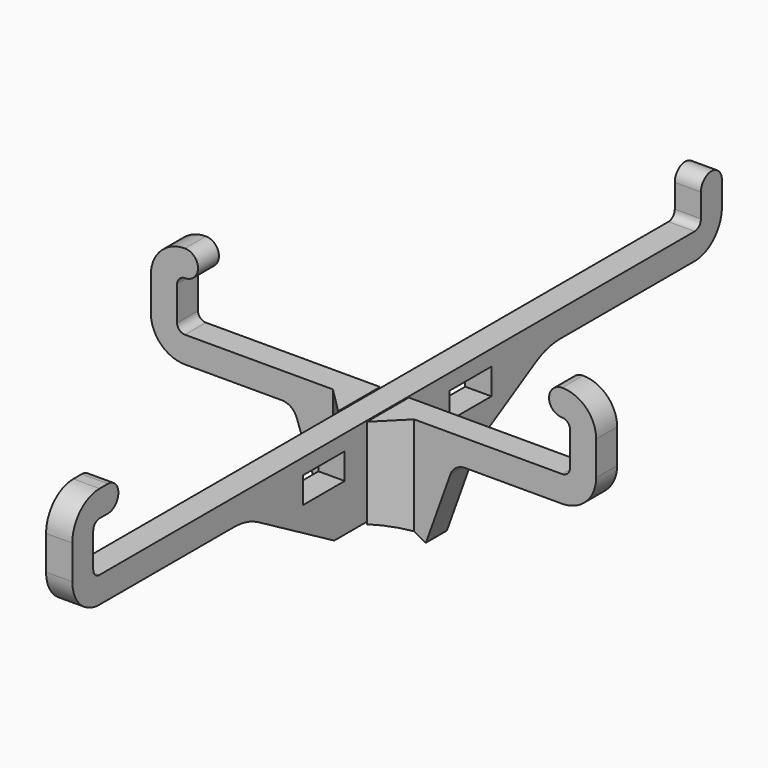
from build123d import *

# Parameters (mm, degrees)
SKETCH_W     = 10
SKETCH_H     = 5
PAD_DEPTH    = 2.5
PAD001_DEPTH = 2.5
PAD002_DEPTH = 20
POCKET_DEPTH = 10


with BuildPart() as vertical:
    # Sketch → Pad (new body, symmetric)
    with BuildSketch(Plane.YZ):
        with BuildLine():
            Line((77.5, 18.500001), (77.5, 22.999999))
            ThreePointArc((77.5, 22.999999), (75, 25.499995), (72.5, 23))
            Line((72.5, 18.499991), (72.5, 23))
            ThreePointArc((71, 17), (72.060657, 17.439336), (72.5, 18.499991))
            Line((-71, 17), (71, 17))
            ThreePointArc((-72.5, 18.499991), (-72.060657, 17.439337), (-71, 17))
            Line((-72.5, 25.000009), (-72.5, 18.499991))
            ThreePointArc((-71.000002, 26.5), (-72.060657, 26.060663), (-72.5, 25.000009))
            Line((-71.000002, 26.5), (-69.000002, 26.5))
            ThreePointArc((-69.000002, 26.5), (-66.500001, 29), (-69.000002, 31.5))
            Line((-69.000002, 31.5), (-70.999998, 31.5))
            ThreePointArc((-70.999998, 31.5), (-75.596194, 29.596195), (-77.5, 25))
            Line((-77.5, 18.499991), (-77.5, 25))
            ThreePointArc((-77.5, 18.499991), (-75.596191, 13.903803), (-71, 12))
            Line((-71, 12), (-38.922975, 12))
            ThreePointArc((-33, 10.392302), (-35.85433, 11.590933), (-38.922975, 12))
            Line((-15, 0), (-33, 10.392302))
            Line((-15, 0), (-2.75, 0))
            Line((-2.75, 0), (-2.75, 8.7))
            Line((-2.75, 8.7), (2.75, 8.7))
            Line((2.75, 8.7), (2.75, 0))
            Line((2.75, 0), (15, 0))
            Line((15, 0), (33, 10.392302))
            ThreePointArc((38.922975, 12), (35.85433, 11.590933), (33, 10.392302))
            Line((38.922975, 12), (71, 12))
            ThreePointArc((71, 12), (75.596194, 13.903806), (77.5, 18.500001))
        make_face()
        with Locations((-17.5, 11.5)):
            Rectangle(SKETCH_W, SKETCH_H, mode=Mode.SUBTRACT)
        with Locations((17.5, 11.5)):
            Rectangle(SKETCH_W, SKETCH_H, mode=Mode.SUBTRACT)
    extrude(amount=PAD_DEPTH, both=True)


with BuildPart() as fusion:
    # Sketch001 → Pad001 (new body, symmetric)
    with BuildSketch(Plane.XZ):
        with BuildLine():
            Line((17.5, 12), (35.999997, 12))
            ThreePointArc((35.999997, 12), (40.596193, 13.903804), (42.5, 18.499999))
            Line((42.5, 25.000001), (42.5, 18.499999))
            ThreePointArc((42.5, 25.000001), (40.596193, 29.596195), (35.999997, 31.5))
            ThreePointArc((35.999997, 31.5), (33.499997, 29), (35.999997, 26.5))
            ThreePointArc((37.5, 25.000001), (37.060659, 26.060661), (35.999997, 26.5))
            Line((37.5, 18.499999), (37.5, 25.000001))
            ThreePointArc((35.999997, 17), (37.060659, 17.439338), (37.5, 18.499999))
            Line((2.75, 17), (35.999997, 17))
            Line((2.75, 8.3), (2.75, 17))
            Line((-2.75, 8.3), (2.75, 8.3))
            Line((-2.75, 17), (-2.75, 8.3))
            Line((-36, 17), (-2.75, 17))
            ThreePointArc((-37.5, 18.499999), (-37.06066, 17.439339), (-36, 17))
            Line((-37.5, 18.499999), (-37.5, 25.000001))
            ThreePointArc((-35.999997, 26.5), (-37.060659, 26.060661), (-37.5, 25.000001))
            ThreePointArc((-35.999997, 26.5), (-33.499997, 29), (-35.999997, 31.5))
            ThreePointArc((-35.999997, 31.5), (-40.596193, 29.596195), (-42.5, 25.000001))
            Line((-42.5, 25.000001), (-42.5, 18.499999))
            ThreePointArc((-42.5, 18.499999), (-40.596193, 13.903804), (-35.999997, 12))
            Line((-35.999997, 12), (-17.5, 12))
            ThreePointArc((-14.676752, 10.01453), (-15.774252, 11.453934), (-17.5, 12))
            Line((-14.676752, 10.01453), (-10, -3))
            Line((-10, -3), (10, -3))
            Line((10, -3), (14.676752, 10.01453))
            ThreePointArc((17.5, 12), (15.774252, 11.453934), (14.676752, 10.01453))
        make_face()
    extrude(amount=PAD001_DEPTH, both=True)

    # Sketch002 → Pad002 (new body)
    with BuildSketch(Plane(origin=(0, 0, 17), x_dir=(-1, 0, 0), z_dir=(0, 0, 1))):
        Polygon((-7.75, 2.5), (-2.75, 7.5), (-2.75, 2.5), align=None)
        Polygon((2.75, 7.5), (2.75, 2.5), (7.75, 2.5), align=None)
    extrude(amount=-PAD002_DEPTH)

    # Sketch003 → Pocket (cut)
    with BuildSketch(Plane(origin=(0, 2.5, 0), x_dir=(1, 0, 0), z_dir=(0, 1, 0))):
        with BuildLine():
            ThreePointArc((-10, 3.138593), (0, 0), (10, 3.138593))
            Line((-10, 3.138593), (10, 3.138593))
        make_face()
    extrude(amount=-POCKET_DEPTH, mode=Mode.SUBTRACT)

    # Fusion: union Vertical
    add(vertical.part)


solid = fusion.part
